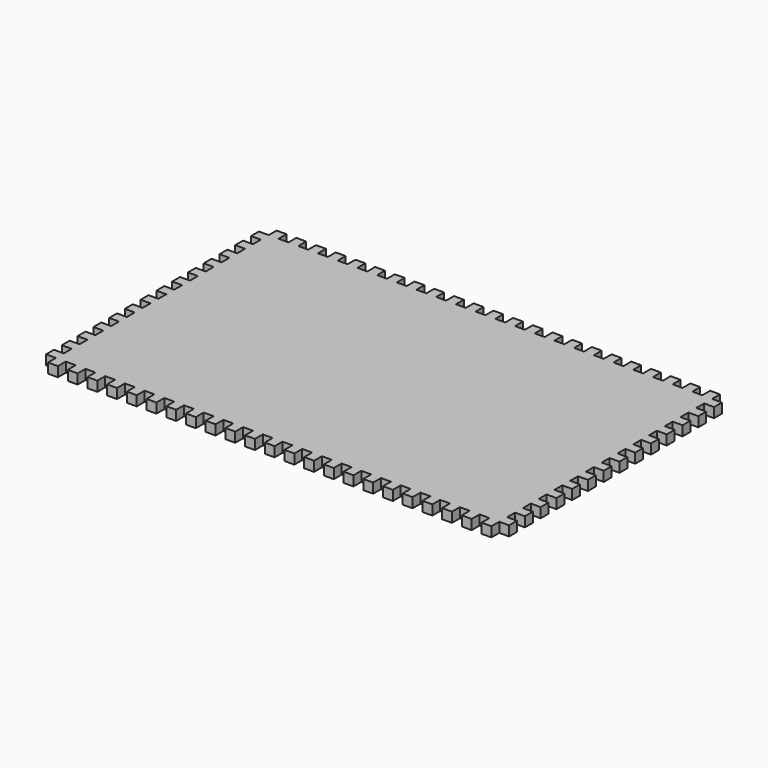
from build123d import *

# Parameters (mm, degrees)
F1_DEPTH = 12.7


with BuildPart() as f1:
    # F0 (on Top) → F1 (new body)
    with BuildSketch(Plane.XY):
        Polygon((12.7, 25.4), (25.4, 25.4), (25.4, 12.7), (38.1, 12.7), (38.1, 25.4), (50.8, 25.4), (50.8, 12.7), (63.5, 12.7), (63.5, 25.4), (76.2, 25.4), (76.2, 12.7), (88.9, 12.7), (88.9, 25.4), (101.6, 25.4), (101.6, 12.7), (114.3, 12.7), (114.3, 25.4), (127, 25.4), (127, 12.7), (139.7, 12.7), (139.7, 25.4), (152.4, 25.4), (152.4, 12.7), (165.1, 12.7), (165.1, 25.4), (177.8, 25.4), (177.8, 12.7), (190.5, 12.7), (190.5, 25.4), (203.2, 25.4), (203.2, 12.7), (215.9, 12.7), (215.9, 25.4), (228.6, 25.4), (228.6, 12.7), (241.3, 12.7), (241.3, 25.4), (254, 25.4), (254, 12.7), (266.7, 12.7), (266.7, 25.4), (279.4, 25.4), (279.4, 12.7), (292.1, 12.7), (292.1, 25.4), (304.8, 25.4), (304.8, 12.7), (317.5, 12.7), (317.5, 25.4), (330.2, 25.4), (330.2, 12.7), (342.9, 12.7), (342.9, 25.4), (355.6, 25.4), (355.6, 12.7), (368.3, 12.7), (368.3, 25.4), (381, 25.4), (381, 12.7), (393.7, 12.7), (393.7, 25.4), (406.4, 25.4), (406.4, 12.7), (419.1, 12.7), (419.1, 25.4), (431.8, 25.4), (431.8, 12.7), (444.5, 12.7), (444.5, 25.4), (457.2, 25.4), (457.2, 12.7), (469.9, 12.7), (469.9, 25.4), (482.6, 25.4), (482.6, 12.7), (495.3, 12.7), (495.3, 25.4), (508, 25.4), (508, 12.7), (520.7, 12.7), (520.7, 25.4), (533.4, 25.4), (533.4, 12.7), (546.1, 12.7), (546.1, 25.4), (558.8, 25.4), (558.8, 12.7), (571.5, 12.7), (571.5, 25.4), (584.2, 25.4), (584.2, 12.7), (596.9, 12.7), (596.9, 25.4), (609.6, 25.4), (609.6, 38.1), (596.9, 38.1), (596.9, 50.8), (609.6, 50.8), (609.6, 63.5), (596.9, 63.5), (596.9, 76.2), (609.6, 76.2), (609.6, 88.9), (596.9, 88.9), (596.9, 101.6), (609.6, 101.6), (609.6, 114.3), (596.9, 114.3), (596.9, 127), (609.6, 127), (609.6, 139.7), (596.9, 139.7), (596.9, 152.4), (609.6, 152.4), (609.6, 165.1), (596.9, 165.1), (596.9, 177.8), (609.6, 177.8), (609.6, 190.5), (596.9, 190.5), (596.9, 203.2), (609.6, 203.2), (609.6, 215.9), (596.9, 215.9), (596.9, 228.6), (609.6, 228.6), (609.6, 241.3), (596.9, 241.3), (596.9, 254), (609.6, 254), (609.6, 266.7), (596.9, 266.7), (596.9, 279.4), (609.6, 279.4), (609.6, 292.1), (596.9, 292.1), (596.9, 304.8), (609.6, 304.8), (609.6, 317.5), (596.9, 317.5), (596.9, 330.2), (609.6, 330.2), (609.6, 342.9), (596.9, 342.9), (596.9, 355.6), (609.6, 355.6), (609.6, 368.3), (596.9, 368.3), (596.9, 381), (584.2, 381), (584.2, 368.3), (571.5, 368.3), (571.5, 381), (558.8, 381), (558.8, 368.3), (546.1, 368.3), (546.1, 381), (533.4, 381), (533.4, 368.3), (520.7, 368.3), (520.7, 381), (508, 381), (508, 368.3), (495.3, 368.3), (495.3, 381), (482.6, 381), (482.6, 368.3), (469.9, 368.3), (469.9, 381), (457.2, 381), (457.2, 368.3), (444.5, 368.3), (444.5, 381), (431.8, 381), (431.8, 368.3), (419.1, 368.3), (419.1, 381), (406.4, 381), (406.4, 368.3), (393.7, 368.3), (393.7, 381), (381, 381), (381, 368.3), (368.3, 368.3), (368.3, 381), (355.6, 381), (355.6, 368.3), (342.9, 368.3), (342.9, 381), (330.2, 381), (330.2, 368.3), (317.5, 368.3), (317.5, 381), (304.8, 381), (304.8, 368.3), (292.1, 368.3), (292.1, 381), (279.4, 381), (279.4, 368.3), (266.7, 368.3), (266.7, 381), (254, 381), (254, 368.3), (241.3, 368.3), (241.3, 381), (228.6, 381), (228.6, 368.3), (215.9, 368.3), (215.9, 381), (203.2, 381), (203.2, 368.3), (190.5, 368.3), (190.5, 381), (177.8, 381), (177.8, 368.3), (165.1, 368.3), (165.1, 381), (152.4, 381), (152.4, 368.3), (139.7, 368.3), (139.7, 381), (127, 381), (127, 368.3), (114.3, 368.3), (114.3, 381), (101.6, 381), (101.6, 368.3), (88.9, 368.3), (88.9, 381), (76.2, 381), (76.2, 368.3), (63.5, 368.3), (63.5, 381), (50.8, 381), (50.8, 368.3), (38.1, 368.3), (38.1, 381), (25.4, 381), (25.4, 368.3), (12.7, 368.3), (12.7, 355.6), (25.4, 355.6), (25.4, 342.9), (12.7, 342.9), (12.7, 330.2), (25.4, 330.2), (25.4, 317.5), (12.7, 317.5), (12.7, 304.8), (25.4, 304.8), (25.4, 292.1), (12.7, 292.1), (12.7, 279.4), (25.4, 279.4), (25.4, 266.7), (12.7, 266.7), (12.7, 254), (25.4, 254), (25.4, 241.3), (12.7, 241.3), (12.7, 228.6), (25.4, 228.6), (25.4, 215.9), (12.7, 215.9), (12.7, 203.2), (25.4, 203.2), (25.4, 190.5), (12.7, 190.5), (12.7, 177.8), (25.4, 177.8), (25.4, 165.1), (12.7, 165.1), (12.7, 152.4), (25.4, 152.4), (25.4, 139.7), (12.7, 139.7), (12.7, 127), (25.4, 127), (25.4, 114.3), (12.7, 114.3), (12.7, 101.6), (25.4, 101.6), (25.4, 88.9), (12.7, 88.9), (12.7, 76.2), (25.4, 76.2), (25.4, 63.5), (12.7, 63.5), (12.7, 50.8), (25.4, 50.8), (25.4, 38.1), (12.7, 38.1), align=None)
    extrude(amount=F1_DEPTH)


solid = f1.part
